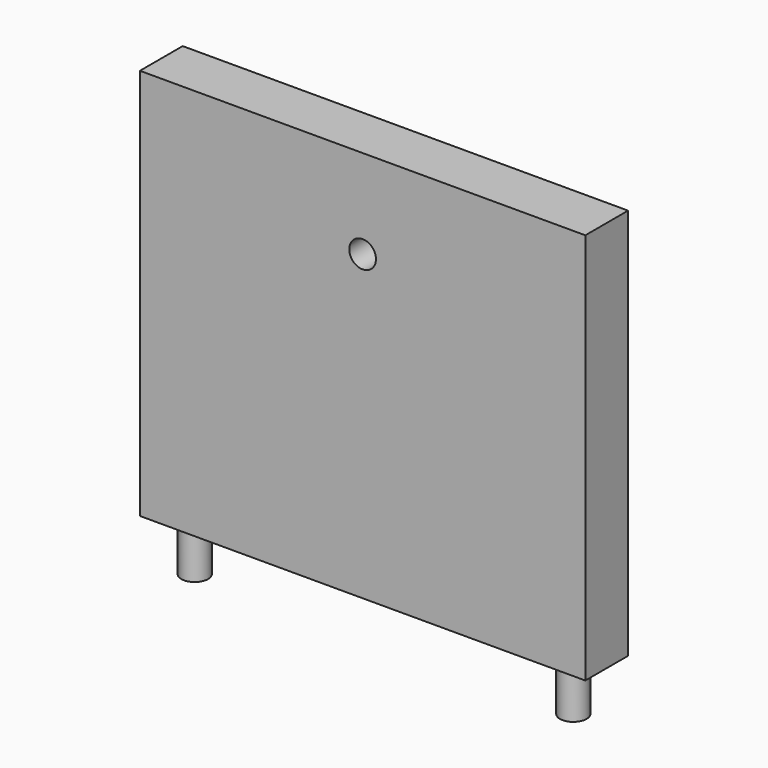
from build123d import *

# Parameters (mm, degrees)
F0_W     = 100
F0_H     = 88
F1_DEPTH = 12
F2_R     = 3
F3_DEPTH = 11.5
F4_R     = 3
F5_DEPTH = 12.001


with BuildPart() as f1:
    # F0 (on Front) → F1 (new body)
    with BuildSketch(Plane.XZ):
        with Locations((50, 44)):
            Rectangle(F0_W, F0_H)
    extrude(amount=F1_DEPTH)

    # F2 (on face) → F3 (join)
    with BuildSketch(Plane(origin=(0, 0, 0), x_dir=(1, 0, 0), z_dir=(0, 0, -1))):
        with Locations((7.5, 6)):
            Circle(F2_R)
        with Locations((92.5, 6)):
            Circle(F2_R)
    extrude(amount=F3_DEPTH)

    # F4 (on face) → F5 (cut, through all)
    with BuildSketch(Plane.XZ.offset(12)):
        with Locations((50, 68)):
            Circle(F4_R)
    extrude(amount=-F5_DEPTH, mode=Mode.SUBTRACT)


solid = f1.part
